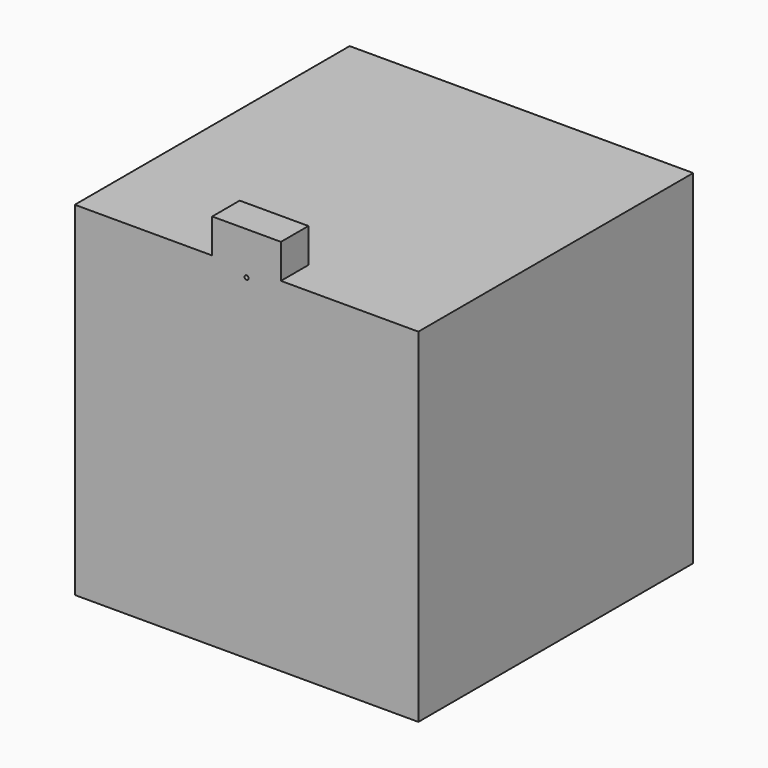
from build123d import *

# Parameters (mm, degrees)
F0_W     = 250
F0_H     = 250
F1_DEPTH = 250
F3_DEPTH = 25
F4_R     = 1.5
F5_DEPTH = 70


with BuildPart() as f1:
    # F0 (on Top) → F1 (new body)
    with BuildSketch(Plane.XY):
        with Locations((62.549456, 79.716726)):
            Rectangle(F0_W, F0_H)
    extrude(amount=F1_DEPTH)

    # F2 (on face) → F3 (join)
    with BuildSketch(Plane.XY.offset(250)):
        Polygon((37.549456, -45.283274), (62.549456, -45.283274), (87.549456, -45.283274), (87.549456, -20.283274), (37.549456, -20.283274), align=None)
    extrude(amount=F3_DEPTH)

    # F4 (on face) → F5 (cut)
    with BuildSketch(Plane.XZ.offset(45.283274)):
        with Locations((62.549456, 244)):
            Circle(F4_R)
    extrude(amount=-F5_DEPTH, mode=Mode.SUBTRACT)


solid = f1.part
